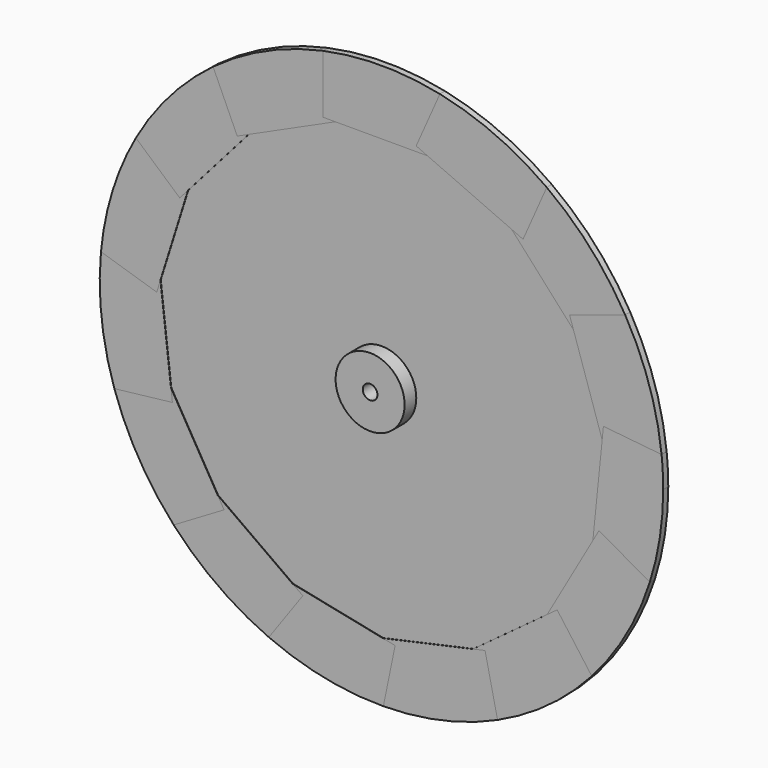
from build123d import *

# Parameters (mm, degrees)
F0_R           = 7.493
F1_DEPTH       = 0.5969
F2_DEPTH       = 0.6869
F3_DEPTH       = 0.6869
F4_DEPTH       = 0.6869
F5_DEPTH       = 0.6869
F6_DEPTH       = 0.6869
F7_DEPTH       = 0.6869
F8_DEPTH       = 0.6869
F9_DEPTH       = 0.6869
F10_DEPTH      = 0.6869
F11_DEPTH      = 0.6869
F12_DEPTH      = 0.6869
F13_DEPTH      = 0.6869
F14_DEPTH      = 0.6869
F15_DEPTH      = 0.6869
F16_DEPTH      = 0.6869
F17_R          = 7.493
F17_R_2        = 1.5875
F18_DEPTH      = 1.1938
F18_DEPTH_BACK = 3.175
F19_DEPTH      = 3.175
F20_R          = 12.7
F20_R_2        = 7.493
F21_DEPTH      = 3.175


with BuildPart() as f1:
    # F0 (on Front) → F1 (new body, symmetric)
    with BuildSketch(Plane.XZ):
        with BuildLine():
            Line((26.4908622034, 41.0569497409), (34.9497275843, 48.7011260422))
            ThreePointArc((34.9497275843, 48.7011260422), (24.3318321881, 54.7836205299), (12.7, 58.5832154802))
            Line((12.7, 58.5832154802), (12.7, 47.1820824287))
            Line((12.7, 47.1820824287), (10.0065398954, 47.1820824287))
            Line((10.0065398954, 47.1820824287), (28.2967602494, 39.0585855143))
            Line((28.2967602494, 39.0585855143), (26.4908622034, 41.0569497409))
        make_face()
        with BuildLine():
            ThreePointArc((-23.7120252318, -55.0547272757), (-12.0380536763, -58.7228098756), (0.137558094, -59.9438421672))
            Line((0.137558094, -59.9438421672), (-2.3034989653, -48.8070977915))
            Line((-2.3034989653, -48.8070977915), (0.3275006498, -48.2304103892))
            Line((0.3275006498, -48.2304103892), (-19.2778690216, -44.2113504541))
            Line((-19.2778690216, -44.2113504541), (-17.0859863467, -45.7767186774))
            Line((-17.0859863467, -45.7767186774), (-23.7120252318, -55.0547272757))
        make_face()
        with BuildLine():
            Line((-37.7559861909, -31.0149062398), (-44.382025076, -40.2929148381))
            ThreePointArc((-44.382025076, -40.2929148381), (-44.2004423597, -40.4920242913), (-44.0179663942, -40.6903154389))
            Line((-44.0179663942, -40.6903154389), (-34.1963103794, -34.9005910946))
            Line((-34.1963103794, -34.9005910946), (-35.564103516, -32.5802744631))
            Line((-35.564103516, -32.5802744631), (-37.7559861909, -31.0149062398))
        make_face()
        with BuildLine():
            ThreePointArc((24.4574842978, -54.7276401631), (24.7032618205, -54.6171400883), (24.9485401136, -54.5055362527))
            Line((24.9485401136, -54.5055362527), (22.5074830543, -43.368791877))
            Line((22.5074830543, -43.368791877), (19.8764834392, -43.9454792792))
            Line((19.8764834392, -43.9454792792), (17.706060654, -45.5404690185))
            Line((17.706060654, -45.5404690185), (24.4574842978, -54.7276401631))
        make_face()
        with BuildLine():
            ThreePointArc((57.0023224603, -18.54773221), (57.0851266389, -18.2912944491), (57.166777181, -18.0344870384))
            Line((57.166777181, -18.0344870384), (47.2674021391, -12.378675104))
            Line((47.2674021391, -12.378675104), (45.931245133, -14.717352463))
            Line((45.931245133, -14.717352463), (45.659404526, -17.3970595402))
            Line((45.659404526, -17.3970595402), (57.0023224603, -18.54773221))
        make_face()
        with BuildLine():
            ThreePointArc((-59.7023991451, 5.3764925664), (-59.550263486, -6.8592459311), (-56.9165965289, -18.8091513783))
            Line((-56.9165965289, -18.8091513783), (-47.094940514, -13.0194270339))
            Line((-47.094940514, -13.0194270339), (-45.7271473774, -15.3397436654))
            Line((-45.7271473774, -15.3397436654), (-48.0171953575, 4.5418820972))
            Line((-48.0171953575, 4.5418820972), (-48.8216412056, 1.9713579848))
            Line((-48.8216412056, 1.9713579848), (-59.7023991451, 5.3764925664))
        make_face()
        with BuildLine():
            ThreePointArc((44.5664836412, -40.0887973362), (44.7462499775, -39.8880464419), (44.9251120343, -39.6864894479))
            Line((44.9251120343, -39.6864894479), (38.1736883906, -30.4993183033))
            Line((38.1736883906, -30.4993183033), (36.0032656054, -32.0943080426))
            Line((36.0032656054, -32.0943080426), (34.6671085993, -34.4329854017))
            Line((34.6671085993, -34.4329854017), (44.5664836412, -40.0887973362))
        make_face()
        with BuildLine():
            Line((-41.2355163896, 26.212040943), (-52.1162743291, 29.6171755246))
            ThreePointArc((-52.1162743291, 29.6171755246), (-52.2488898631, 29.3825908333), (-52.3804494963, 29.1474123477))
            Line((-52.3804494963, 29.1474123477), (-43.8185558819, 21.6188127041))
            Line((-43.8185558819, 21.6188127041), (-42.0399622376, 23.6415168306))
            Line((-42.0399622376, 23.6415168306), (-41.2355163896, 26.212040943))
        make_face()
        with BuildLine():
            Line((-48.3254014376, 7.217650463), (-59.6516472212, 5.9130465745))
            ThreePointArc((-59.6516472212, 5.9130465745), (-59.6776261974, 5.6448266088), (-59.7023991451, 5.3764925664))
            Line((-59.7023991451, 5.3764925664), (-48.8216412056, 1.9713579848))
            Line((-48.8216412056, 1.9713579848), (-48.0171953575, 4.5418820972))
            Line((-48.0171953575, 4.5418820972), (-48.3254014376, 7.217650463))
        make_face()
        with BuildLine():
            Line((-47.094940514, -13.0194270339), (-56.9165965289, -18.8091513783))
            ThreePointArc((-56.9165965289, -18.8091513783), (-56.83146606, -19.06482629), (-56.745187081, -19.3201159196))
            Line((-56.745187081, -19.3201159196), (-45.4189412973, -18.0155120311))
            Line((-45.4189412973, -18.0155120311), (-45.7271473774, -15.3397436654))
            Line((-45.7271473774, -15.3397436654), (-47.094940514, -13.0194270339))
        make_face()
        with BuildLine():
            Line((40.875753265, 26.7696039816), (51.7092659789, 30.322185738))
            ThreePointArc((51.7092659789, 30.322185738), (44.4743714598, 40.1909619101), (35.3861762451, 48.3849322285))
            Line((35.3861762451, 48.3849322285), (30.7583493372, 37.9652847791))
            Line((30.7583493372, 37.9652847791), (28.2967602494, 39.0585855143))
            Line((28.2967602494, 39.0585855143), (41.7150327634, 24.2102413151))
            Line((41.7150327634, 24.2102413151), (40.875753265, 26.7696039816))
        make_face()
        with BuildLine():
            Line((-21.9164574646, -43.6704453208), (-24.2060519469, -54.8393124058))
            ThreePointArc((-24.2060519469, -54.8393124058), (-23.9592806866, -54.9475750601), (-23.7120252318, -55.0547272757))
            Line((-23.7120252318, -55.0547272757), (-17.0859863467, -45.7767186774))
            Line((-17.0859863467, -45.7767186774), (-19.2778690216, -44.2113504541))
            Line((-19.2778690216, -44.2113504541), (-21.9164574646, -43.6704453208))
        make_face()
        with BuildLine():
            ThreePointArc((44.9251120343, -39.6864894479), (52.0481723027, -29.736692754), (57.0023224603, -18.54773221))
            Line((57.0023224603, -18.54773221), (45.659404526, -17.3970595402))
            Line((45.659404526, -17.3970595402), (45.931245133, -14.717352463))
            Line((45.931245133, -14.717352463), (36.0032656054, -32.0943080426))
            Line((36.0032656054, -32.0943080426), (38.1736883906, -30.4993183033))
            Line((38.1736883906, -30.4993183033), (44.9251120343, -39.6864894479))
        make_face()
        with BuildLine():
            Line((12.7, 47.1820824287), (12.7, 58.5832154802))
            ThreePointArc((12.7, 58.5832154802), (12.4365145228, 58.6397155734), (12.1727777154, 58.6950306133))
            Line((12.1727777154, 58.6950306133), (7.5449508076, 48.2753831639))
            Line((7.5449508076, 48.2753831639), (10.0065398954, 47.1820824287))
            Line((10.0065398954, 47.1820824287), (12.7, 47.1820824287))
        make_face()
        with BuildLine():
            Line((30.7583493372, 37.9652847791), (35.3861762451, 48.3849322285))
            ThreePointArc((35.3861762451, 48.3849322285), (35.1683072738, 48.5435196447), (34.9497275843, 48.7011260422))
            Line((34.9497275843, 48.7011260422), (26.4908622034, 41.0569497409))
            Line((26.4908622034, 41.0569497409), (28.2967602494, 39.0585855143))
            Line((28.2967602494, 39.0585855143), (30.7583493372, 37.9652847791))
        make_face()
        with BuildLine():
            Line((-27.0459745881, 40.6934166775), (-35.6078682025, 48.2220163211))
            ThreePointArc((-35.6078682025, 48.2220163211), (-35.8273801364, 48.0591507266), (-36.046147156, 47.8952858976))
            Line((-36.046147156, 47.8952858976), (-31.3380487126, 37.5134812902))
            Line((-31.3380487126, 37.5134812902), (-28.8499866665, 38.6418054583))
            Line((-28.8499866665, 38.6418054583), (-27.0459745881, 40.6934166775))
        make_face()
        with BuildLine():
            ThreePointArc((-56.745187081, -19.3201159196), (-51.6395471831, -30.4407671178), (-44.382025076, -40.2929148381))
            Line((-44.382025076, -40.2929148381), (-37.7559861909, -31.0149062398))
            Line((-37.7559861909, -31.0149062398), (-35.564103516, -32.5802744631))
            Line((-35.564103516, -32.5802744631), (-45.7271473774, -15.3397436654))
            Line((-45.7271473774, -15.3397436654), (-45.4189412973, -18.0155120311))
            Line((-45.4189412973, -18.0155120311), (-56.745187081, -19.3201159196))
        make_face()
        with BuildLine():
            Line((-43.8185558819, 21.6188127041), (-52.3804494963, 29.1474123477))
            ThreePointArc((-52.3804494963, 29.1474123477), (-57.2080117812, 17.9032545658), (-59.6516472212, 5.9130465745))
            Line((-59.6516472212, 5.9130465745), (-48.3254014376, 7.217650463))
            Line((-48.3254014376, 7.217650463), (-48.0171953575, 4.5418820972))
            Line((-48.0171953575, 4.5418820972), (-42.0399622376, 23.6415168306))
            Line((-42.0399622376, 23.6415168306), (-43.8185558819, 21.6188127041))
        make_face()
        with BuildLine():
            ThreePointArc((-44.0179663942, -40.6903154389), (-34.8378773527, -48.7811996322), (-24.2060519469, -54.8393124058))
            Line((-24.2060519469, -54.8393124058), (-21.9164574646, -43.6704453208))
            Line((-21.9164574646, -43.6704453208), (-19.2778690216, -44.2113504541))
            Line((-19.2778690216, -44.2113504541), (-35.564103516, -32.5802744631))
            Line((-35.564103516, -32.5802744631), (-34.1963103794, -34.9005910946))
            Line((-34.1963103794, -34.9005910946), (-44.0179663942, -40.6903154389))
        make_face()
        with BuildLine():
            Line((-2.3034989653, -48.8070977915), (0.137558094, -59.9438421672))
            ThreePointArc((0.137558094, -59.9438421672), (0.4070304651, -59.9426180793), (0.6764946106, -59.9401826077))
            Line((0.6764946106, -59.9401826077), (2.9660890929, -48.7713155226))
            Line((2.9660890929, -48.7713155226), (0.3275006498, -48.2304103892))
            Line((0.3275006498, -48.2304103892), (-2.3034989653, -48.8070977915))
        make_face()
        with BuildLine():
            ThreePointArc((57.166777181, -18.0344870384), (59.2456261142, -9.1235367227), (59.944, 0))
            ThreePointArc((59.944, 0), (59.8639167053, 3.0975171837), (59.6238807986, 6.1867579967))
            Line((59.6238807986, 6.1867579967), (48.7903680848, 2.6341762403))
            Line((48.7903680848, 2.6341762403), (47.9510885863, 5.1935389068))
            Line((47.9510885863, 5.1935389068), (45.931245133, -14.717352463))
            Line((45.931245133, -14.717352463), (47.2674021391, -12.378675104))
            Line((47.2674021391, -12.378675104), (57.166777181, -18.0344870384))
        make_face()
        Polygon((45.931245133, -14.717352463), (47.9510885863, 5.1935389068), (41.7150327634, 24.2102413151), (28.2967602494, 39.0585855143), (10.0065398954, 47.1820824287), (-10.0178641298, 47.1820824287), (-28.8499866665, 38.6418054583), (-42.0399622376, 23.6415168306), (-48.0171953575, 4.5418820972), (-45.7271473774, -15.3397436654), (-35.564103516, -32.5802744631), (-19.2778690216, -44.2113504541), (0.3275006498, -48.2304103892), (19.8764834392, -43.9454792792), (36.0032656054, -32.0943080426), align=None)
        Circle(F0_R, mode=Mode.SUBTRACT)
        with BuildLine():
            ThreePointArc((24.9485401136, -54.5055362527), (35.4971156878, -48.3036014583), (44.5664836412, -40.0887973362))
            Line((44.5664836412, -40.0887973362), (34.6671085993, -34.4329854017))
            Line((34.6671085993, -34.4329854017), (36.0032656054, -32.0943080426))
            Line((36.0032656054, -32.0943080426), (19.8764834392, -43.9454792792))
            Line((19.8764834392, -43.9454792792), (22.5074830543, -43.368791877))
            Line((22.5074830543, -43.368791877), (24.9485401136, -54.5055362527))
        make_face()
        with BuildLine():
            Line((48.2229291934, 7.8732459839), (59.5658471277, 6.7225733141))
            ThreePointArc((59.5658471277, 6.7225733141), (56.9596094694, 18.6784909747), (51.9797961903, 29.8560533898))
            Line((51.9797961903, 29.8560533898), (43.5209308094, 22.2118770885))
            Line((43.5209308094, 22.2118770885), (41.7150327634, 24.2102413151))
            Line((41.7150327634, 24.2102413151), (47.9510885863, 5.1935389068))
            Line((47.9510885863, 5.1935389068), (48.2229291934, 7.8732459839))
        make_face()
        with BuildLine():
            Line((48.7903680848, 2.6341762403), (59.6238807986, 6.1867579967))
            ThreePointArc((59.6238807986, 6.1867579967), (59.5954661472, 6.4547308774), (59.5658471277, 6.7225733141))
            Line((59.5658471277, 6.7225733141), (48.2229291934, 7.8732459839))
            Line((48.2229291934, 7.8732459839), (47.9510885863, 5.1935389068))
            Line((47.9510885863, 5.1935389068), (48.7903680848, 2.6341762403))
        make_face()
        with BuildLine():
            Line((43.5209308094, 22.2118770885), (51.9797961903, 29.8560533898))
            ThreePointArc((51.9797961903, 29.8560533898), (51.8450549544, 30.0894236033), (51.7092659789, 30.322185738))
            Line((51.7092659789, 30.322185738), (40.875753265, 26.7696039816))
            Line((40.875753265, 26.7696039816), (41.7150327634, 24.2102413151))
            Line((41.7150327634, 24.2102413151), (43.5209308094, 22.2118770885))
        make_face()
        with BuildLine():
            ThreePointArc((-12.2451513801, 58.679974469), (-12.4726695186, 58.6320360475), (-12.7, 58.5832154802))
            Line((-12.7, 58.5832154802), (-12.7, 47.1820824287))
            Line((-12.7, 47.1820824287), (-10.0178641298, 47.1820824287))
            Line((-10.0178641298, 47.1820824287), (-8.2055966443, 48.0039370147))
            Line((-8.2055966443, 48.0039370147), (-12.2451513801, 58.679974469))
        make_face()
        with BuildLine():
            ThreePointArc((0.6764946106, -59.9401826077), (12.8344019582, -58.5539175664), (24.4574842978, -54.7276401631))
            Line((24.4574842978, -54.7276401631), (17.706060654, -45.5404690185))
            Line((17.706060654, -45.5404690185), (19.8764834392, -43.9454792792))
            Line((19.8764834392, -43.9454792792), (0.3275006498, -48.2304103892))
            Line((0.3275006498, -48.2304103892), (2.9660890929, -48.7713155226))
            Line((2.9660890929, -48.7713155226), (0.6764946106, -59.9401826077))
        make_face()
        with BuildLine():
            Line((-31.3380487126, 37.5134812902), (-36.046147156, 47.8952858976))
            ThreePointArc((-36.046147156, 47.8952858976), (-45.0186124867, 39.5803949673), (-52.1162743291, 29.6171755246))
            Line((-52.1162743291, 29.6171755246), (-41.2355163896, 26.212040943))
            Line((-41.2355163896, 26.212040943), (-42.0399622376, 23.6415168306))
            Line((-42.0399622376, 23.6415168306), (-28.8499866665, 38.6418054583))
            Line((-28.8499866665, 38.6418054583), (-31.3380487126, 37.5134812902))
        make_face()
        with BuildLine():
            Line((-12.7, 47.1820824287), (-12.7, 58.5832154802))
            ThreePointArc((-12.7, 58.5832154802), (-24.7032618205, 54.6171400883), (-35.6078682025, 48.2220163211))
            Line((-35.6078682025, 48.2220163211), (-27.0459745881, 40.6934166775))
            Line((-27.0459745881, 40.6934166775), (-28.8499866665, 38.6418054583))
            Line((-28.8499866665, 38.6418054583), (-10.0178641298, 47.1820824287))
            Line((-10.0178641298, 47.1820824287), (-12.7, 47.1820824287))
        make_face()
        with BuildLine():
            Line((7.5449508076, 48.2753831639), (12.1727777154, 58.6950306133))
            ThreePointArc((12.1727777154, 58.6950306133), (-0.0369615842, 59.9439886047), (-12.2451513801, 58.679974469))
            Line((-12.2451513801, 58.679974469), (-8.2055966443, 48.0039370147))
            Line((-8.2055966443, 48.0039370147), (-10.0178641298, 47.1820824287))
            Line((-10.0178641298, 47.1820824287), (10.0065398954, 47.1820824287))
            Line((10.0065398954, 47.1820824287), (7.5449508076, 48.2753831639))
        make_face()
    extrude(amount=F1_DEPTH, both=True)


with BuildPart() as f2:
    # F0 (on Front) → F2 (new body, symmetric)
    with BuildSketch(Plane.XZ):
        with BuildLine():
            Line((40.875753265, 26.7696039816), (51.7092659789, 30.322185738))
            ThreePointArc((51.7092659789, 30.322185738), (44.4743714598, 40.1909619101), (35.3861762451, 48.3849322285))
            Line((35.3861762451, 48.3849322285), (30.7583493372, 37.9652847791))
            Line((30.7583493372, 37.9652847791), (28.2967602494, 39.0585855143))
            Line((28.2967602494, 39.0585855143), (41.7150327634, 24.2102413151))
            Line((41.7150327634, 24.2102413151), (40.875753265, 26.7696039816))
        make_face()
        with BuildLine():
            Line((43.5209308094, 22.2118770885), (51.9797961903, 29.8560533898))
            ThreePointArc((51.9797961903, 29.8560533898), (51.8450549544, 30.0894236033), (51.7092659789, 30.322185738))
            Line((51.7092659789, 30.322185738), (40.875753265, 26.7696039816))
            Line((40.875753265, 26.7696039816), (41.7150327634, 24.2102413151))
            Line((41.7150327634, 24.2102413151), (43.5209308094, 22.2118770885))
        make_face()
        with BuildLine():
            Line((30.7583493372, 37.9652847791), (35.3861762451, 48.3849322285))
            ThreePointArc((35.3861762451, 48.3849322285), (35.1683072738, 48.5435196447), (34.9497275843, 48.7011260422))
            Line((34.9497275843, 48.7011260422), (26.4908622034, 41.0569497409))
            Line((26.4908622034, 41.0569497409), (28.2967602494, 39.0585855143))
            Line((28.2967602494, 39.0585855143), (30.7583493372, 37.9652847791))
        make_face()
        with BuildLine():
            Line((51.7092659789, 30.322185738), (52.9434671356, 30.7269113915))
            ThreePointArc((52.9434671356, 30.7269113915), (45.4166250924, 41.0424653404), (35.9133985296, 49.5719840439))
            Line((35.9133985296, 49.5719840439), (35.3861762451, 48.3849322285))
            ThreePointArc((35.3861762451, 48.3849322285), (44.4743714598, 40.1909619101), (51.7092659789, 30.322185738))
        make_face()
        with BuildLine():
            ThreePointArc((51.7092659789, 30.322185738), (51.8450549544, 30.0894236033), (51.9797961903, 29.8560533898))
            Line((51.9797961903, 29.8560533898), (52.9434671356, 30.7269113915))
            Line((52.9434671356, 30.7269113915), (51.7092659789, 30.322185738))
        make_face()
        with BuildLine():
            Line((35.3861762451, 48.3849322285), (35.9133985296, 49.5719840439))
            Line((35.9133985296, 49.5719840439), (34.9497275843, 48.7011260422))
            ThreePointArc((34.9497275843, 48.7011260422), (35.1683072738, 48.5435196447), (35.3861762451, 48.3849322285))
        make_face()
    extrude(amount=F2_DEPTH, both=True)


with BuildPart() as f3:
    # F0 (on Front) → F3 (new body, symmetric)
    with BuildSketch(Plane.XZ):
        with BuildLine():
            Line((43.5209308094, 22.2118770885), (51.9797961903, 29.8560533898))
            ThreePointArc((51.9797961903, 29.8560533898), (51.8450549544, 30.0894236033), (51.7092659789, 30.322185738))
            Line((51.7092659789, 30.322185738), (40.875753265, 26.7696039816))
            Line((40.875753265, 26.7696039816), (41.7150327634, 24.2102413151))
            Line((41.7150327634, 24.2102413151), (43.5209308094, 22.2118770885))
        make_face()
        with BuildLine():
            Line((48.2229291934, 7.8732459839), (59.5658471277, 6.7225733141))
            ThreePointArc((59.5658471277, 6.7225733141), (56.9596094694, 18.6784909747), (51.9797961903, 29.8560533898))
            Line((51.9797961903, 29.8560533898), (43.5209308094, 22.2118770885))
            Line((43.5209308094, 22.2118770885), (41.7150327634, 24.2102413151))
            Line((41.7150327634, 24.2102413151), (47.9510885863, 5.1935389068))
            Line((47.9510885863, 5.1935389068), (48.2229291934, 7.8732459839))
        make_face()
        with BuildLine():
            ThreePointArc((51.9797961903, 29.8560533898), (56.9596094694, 18.6784909747), (59.5658471277, 6.7225733141))
            Line((59.5658471277, 6.7225733141), (60.8580819554, 6.5914836502))
            ThreePointArc((60.8580819554, 6.5914836502), (58.1663808565, 19.0742217157), (52.9434671356, 30.7269113915))
            Line((52.9434671356, 30.7269113915), (51.9797961903, 29.8560533898))
        make_face()
        with BuildLine():
            Line((48.7903680848, 2.6341762403), (59.6238807986, 6.1867579967))
            ThreePointArc((59.6238807986, 6.1867579967), (59.5954661472, 6.4547308774), (59.5658471277, 6.7225733141))
            Line((59.5658471277, 6.7225733141), (48.2229291934, 7.8732459839))
            Line((48.2229291934, 7.8732459839), (47.9510885863, 5.1935389068))
            Line((47.9510885863, 5.1935389068), (48.7903680848, 2.6341762403))
        make_face()
        with BuildLine():
            ThreePointArc((59.5658471277, 6.7225733141), (59.5954661472, 6.4547308774), (59.6238807986, 6.1867579967))
            Line((59.6238807986, 6.1867579967), (60.8580819554, 6.5914836502))
            Line((60.8580819554, 6.5914836502), (59.5658471277, 6.7225733141))
        make_face()
        with BuildLine():
            ThreePointArc((51.7092659789, 30.322185738), (51.8450549544, 30.0894236033), (51.9797961903, 29.8560533898))
            Line((51.9797961903, 29.8560533898), (52.9434671356, 30.7269113915))
            Line((52.9434671356, 30.7269113915), (51.7092659789, 30.322185738))
        make_face()
    extrude(amount=F3_DEPTH, both=True)


with BuildPart() as f4:
    # F0 (on Front) → F4 (new body, symmetric)
    with BuildSketch(Plane.XZ):
        with BuildLine():
            Line((58.294557288, -18.6788218739), (57.166777181, -18.0344870384))
            ThreePointArc((57.166777181, -18.0344870384), (57.0851266389, -18.2912944491), (57.0023224603, -18.54773221))
            Line((57.0023224603, -18.54773221), (58.294557288, -18.6788218739))
        make_face()
        with BuildLine():
            ThreePointArc((57.0023224603, -18.54773221), (57.0851266389, -18.2912944491), (57.166777181, -18.0344870384))
            Line((57.166777181, -18.0344870384), (47.2674021391, -12.378675104))
            Line((47.2674021391, -12.378675104), (45.931245133, -14.717352463))
            Line((45.931245133, -14.717352463), (45.659404526, -17.3970595402))
            Line((45.659404526, -17.3970595402), (57.0023224603, -18.54773221))
        make_face()
        with BuildLine():
            Line((48.7903680848, 2.6341762403), (59.6238807986, 6.1867579967))
            ThreePointArc((59.6238807986, 6.1867579967), (59.5954661472, 6.4547308774), (59.5658471277, 6.7225733141))
            Line((59.5658471277, 6.7225733141), (48.2229291934, 7.8732459839))
            Line((48.2229291934, 7.8732459839), (47.9510885863, 5.1935389068))
            Line((47.9510885863, 5.1935389068), (48.7903680848, 2.6341762403))
        make_face()
        with BuildLine():
            ThreePointArc((57.166777181, -18.0344870384), (59.2456261142, -9.1235367227), (59.944, 0))
            ThreePointArc((59.944, 0), (59.8639167053, 3.0975171837), (59.6238807986, 6.1867579967))
            Line((59.6238807986, 6.1867579967), (48.7903680848, 2.6341762403))
            Line((48.7903680848, 2.6341762403), (47.9510885863, 5.1935389068))
            Line((47.9510885863, 5.1935389068), (45.931245133, -14.717352463))
            Line((45.931245133, -14.717352463), (47.2674021391, -12.378675104))
            Line((47.2674021391, -12.378675104), (57.166777181, -18.0344870384))
        make_face()
        with BuildLine():
            ThreePointArc((59.5658471277, 6.7225733141), (59.5954661472, 6.4547308774), (59.6238807986, 6.1867579967))
            Line((59.6238807986, 6.1867579967), (60.8580819554, 6.5914836502))
            Line((60.8580819554, 6.5914836502), (59.5658471277, 6.7225733141))
        make_face()
        with BuildLine():
            ThreePointArc((59.6238807986, 6.1867579967), (59.8639167053, 3.0975171837), (59.944, 0))
            ThreePointArc((59.944, 0), (59.2456261142, -9.1235367227), (57.166777181, -18.0344870384))
            Line((57.166777181, -18.0344870384), (58.294557288, -18.6788218739))
            ThreePointArc((58.294557288, -18.6788218739), (60.4797355559, -9.4527976328), (61.214, 0))
            ThreePointArc((61.214, 0), (61.1249557252, 3.3005429237), (60.8580819554, 6.5914836502))
            Line((60.8580819554, 6.5914836502), (59.6238807986, 6.1867579967))
        make_face()
    extrude(amount=F4_DEPTH, both=True)


with BuildPart() as f5:
    # F0 (on Front) → F5 (new body, symmetric)
    with BuildSketch(Plane.XZ):
        with BuildLine():
            ThreePointArc((44.9251120343, -39.6864894479), (52.0481723027, -29.736692754), (57.0023224603, -18.54773221))
            Line((57.0023224603, -18.54773221), (45.659404526, -17.3970595402))
            Line((45.659404526, -17.3970595402), (45.931245133, -14.717352463))
            Line((45.931245133, -14.717352463), (36.0032656054, -32.0943080426))
            Line((36.0032656054, -32.0943080426), (38.1736883906, -30.4993183033))
            Line((38.1736883906, -30.4993183033), (44.9251120343, -39.6864894479))
        make_face()
        with BuildLine():
            ThreePointArc((57.0023224603, -18.54773221), (57.0851266389, -18.2912944491), (57.166777181, -18.0344870384))
            Line((57.166777181, -18.0344870384), (47.2674021391, -12.378675104))
            Line((47.2674021391, -12.378675104), (45.931245133, -14.717352463))
            Line((45.931245133, -14.717352463), (45.659404526, -17.3970595402))
            Line((45.659404526, -17.3970595402), (57.0023224603, -18.54773221))
        make_face()
        with BuildLine():
            Line((58.294557288, -18.6788218739), (57.0023224603, -18.54773221))
            ThreePointArc((57.0023224603, -18.54773221), (52.0481723027, -29.736692754), (44.9251120343, -39.6864894479))
            Line((44.9251120343, -39.6864894479), (45.6942637482, -40.7331321716))
            ThreePointArc((45.6942637482, -40.7331321716), (53.1508878176, -30.366707431), (58.294557288, -18.6788218739))
        make_face()
        with BuildLine():
            ThreePointArc((44.5664836412, -40.0887973362), (44.7462499775, -39.8880464419), (44.9251120343, -39.6864894479))
            Line((44.9251120343, -39.6864894479), (38.1736883906, -30.4993183033))
            Line((38.1736883906, -30.4993183033), (36.0032656054, -32.0943080426))
            Line((36.0032656054, -32.0943080426), (34.6671085993, -34.4329854017))
            Line((34.6671085993, -34.4329854017), (44.5664836412, -40.0887973362))
        make_face()
        with BuildLine():
            Line((58.294557288, -18.6788218739), (57.166777181, -18.0344870384))
            ThreePointArc((57.166777181, -18.0344870384), (57.0851266389, -18.2912944491), (57.0023224603, -18.54773221))
            Line((57.0023224603, -18.54773221), (58.294557288, -18.6788218739))
        make_face()
        with BuildLine():
            Line((45.6942637482, -40.7331321716), (44.9251120343, -39.6864894479))
            ThreePointArc((44.9251120343, -39.6864894479), (44.7462499775, -39.8880464419), (44.5664836412, -40.0887973362))
            Line((44.5664836412, -40.0887973362), (45.6942637482, -40.7331321716))
        make_face()
    extrude(amount=F5_DEPTH, both=True)


with BuildPart() as f6:
    # F0 (on Front) → F6 (new body, symmetric)
    with BuildSketch(Plane.XZ):
        with BuildLine():
            ThreePointArc((24.9485401136, -54.5055362527), (35.4971156878, -48.3036014583), (44.5664836412, -40.0887973362))
            Line((44.5664836412, -40.0887973362), (34.6671085993, -34.4329854017))
            Line((34.6671085993, -34.4329854017), (36.0032656054, -32.0943080426))
            Line((36.0032656054, -32.0943080426), (19.8764834392, -43.9454792792))
            Line((19.8764834392, -43.9454792792), (22.5074830543, -43.368791877))
            Line((22.5074830543, -43.368791877), (24.9485401136, -54.5055362527))
        make_face()
        with BuildLine():
            ThreePointArc((44.5664836412, -40.0887973362), (44.7462499775, -39.8880464419), (44.9251120343, -39.6864894479))
            Line((44.9251120343, -39.6864894479), (38.1736883906, -30.4993183033))
            Line((38.1736883906, -30.4993183033), (36.0032656054, -32.0943080426))
            Line((36.0032656054, -32.0943080426), (34.6671085993, -34.4329854017))
            Line((34.6671085993, -34.4329854017), (44.5664836412, -40.0887973362))
        make_face()
        with BuildLine():
            ThreePointArc((24.4574842978, -54.7276401631), (24.7032618205, -54.6171400883), (24.9485401136, -54.5055362527))
            Line((24.9485401136, -54.5055362527), (22.5074830543, -43.368791877))
            Line((22.5074830543, -43.368791877), (19.8764834392, -43.9454792792))
            Line((19.8764834392, -43.9454792792), (17.706060654, -45.5404690185))
            Line((17.706060654, -45.5404690185), (24.4574842978, -54.7276401631))
        make_face()
        with BuildLine():
            ThreePointArc((25.2266360116, -55.7742828868), (36.2491732236, -49.3269828452), (45.6942637482, -40.7331321716))
            Line((45.6942637482, -40.7331321716), (44.5664836412, -40.0887973362))
            ThreePointArc((44.5664836412, -40.0887973362), (35.4971156878, -48.3036014583), (24.9485401136, -54.5055362527))
            Line((24.9485401136, -54.5055362527), (25.2266360116, -55.7742828868))
        make_face()
        with BuildLine():
            Line((45.6942637482, -40.7331321716), (44.9251120343, -39.6864894479))
            ThreePointArc((44.9251120343, -39.6864894479), (44.7462499775, -39.8880464419), (44.5664836412, -40.0887973362))
            Line((44.5664836412, -40.0887973362), (45.6942637482, -40.7331321716))
        make_face()
        with BuildLine():
            Line((24.4574842978, -54.7276401631), (25.2266360116, -55.7742828868))
            Line((25.2266360116, -55.7742828868), (24.9485401136, -54.5055362527))
            ThreePointArc((24.9485401136, -54.5055362527), (24.7032618205, -54.6171400883), (24.4574842978, -54.7276401631))
        make_face()
    extrude(amount=F6_DEPTH, both=True)


with BuildPart() as f7:
    # F0 (on Front) → F7 (new body, symmetric)
    with BuildSketch(Plane.XZ):
        with BuildLine():
            ThreePointArc((0.6764946106, -59.9401826077), (12.8344019582, -58.5539175664), (24.4574842978, -54.7276401631))
            Line((24.4574842978, -54.7276401631), (17.706060654, -45.5404690185))
            Line((17.706060654, -45.5404690185), (19.8764834392, -43.9454792792))
            Line((19.8764834392, -43.9454792792), (0.3275006498, -48.2304103892))
            Line((0.3275006498, -48.2304103892), (2.9660890929, -48.7713155226))
            Line((2.9660890929, -48.7713155226), (0.6764946106, -59.9401826077))
        make_face()
        with BuildLine():
            Line((-2.3034989653, -48.8070977915), (0.137558094, -59.9438421672))
            ThreePointArc((0.137558094, -59.9438421672), (0.4070304651, -59.9426180793), (0.6764946106, -59.9401826077))
            Line((0.6764946106, -59.9401826077), (2.9660890929, -48.7713155226))
            Line((2.9660890929, -48.7713155226), (0.3275006498, -48.2304103892))
            Line((0.3275006498, -48.2304103892), (-2.3034989653, -48.8070977915))
        make_face()
        with BuildLine():
            ThreePointArc((0.4156539919, -61.2125888013), (13.106317254, -59.7944666674), (25.2266360116, -55.7742828868))
            Line((25.2266360116, -55.7742828868), (24.4574842978, -54.7276401631))
            ThreePointArc((24.4574842978, -54.7276401631), (12.8344019582, -58.5539175664), (0.6764946106, -59.9401826077))
            Line((0.6764946106, -59.9401826077), (0.4156539919, -61.2125888013))
        make_face()
        with BuildLine():
            ThreePointArc((24.4574842978, -54.7276401631), (24.7032618205, -54.6171400883), (24.9485401136, -54.5055362527))
            Line((24.9485401136, -54.5055362527), (22.5074830543, -43.368791877))
            Line((22.5074830543, -43.368791877), (19.8764834392, -43.9454792792))
            Line((19.8764834392, -43.9454792792), (17.706060654, -45.5404690185))
            Line((17.706060654, -45.5404690185), (24.4574842978, -54.7276401631))
        make_face()
        with BuildLine():
            Line((0.137558094, -59.9438421672), (0.4156539919, -61.2125888013))
            Line((0.4156539919, -61.2125888013), (0.6764946106, -59.9401826077))
            ThreePointArc((0.6764946106, -59.9401826077), (0.4070304651, -59.9426180793), (0.137558094, -59.9438421672))
        make_face()
        with BuildLine():
            Line((24.4574842978, -54.7276401631), (25.2266360116, -55.7742828868))
            Line((25.2266360116, -55.7742828868), (24.9485401136, -54.5055362527))
            ThreePointArc((24.9485401136, -54.5055362527), (24.7032618205, -54.6171400883), (24.4574842978, -54.7276401631))
        make_face()
    extrude(amount=F7_DEPTH, both=True)


with BuildPart() as f8:
    # F0 (on Front) → F8 (new body, symmetric)
    with BuildSketch(Plane.XZ):
        with BuildLine():
            ThreePointArc((-23.7120252318, -55.0547272757), (-12.0380536763, -58.7228098756), (0.137558094, -59.9438421672))
            Line((0.137558094, -59.9438421672), (-2.3034989653, -48.8070977915))
            Line((-2.3034989653, -48.8070977915), (0.3275006498, -48.2304103892))
            Line((0.3275006498, -48.2304103892), (-19.2778690216, -44.2113504541))
            Line((-19.2778690216, -44.2113504541), (-17.0859863467, -45.7767186774))
            Line((-17.0859863467, -45.7767186774), (-23.7120252318, -55.0547272757))
        make_face()
        with BuildLine():
            Line((-21.9164574646, -43.6704453208), (-24.2060519469, -54.8393124058))
            ThreePointArc((-24.2060519469, -54.8393124058), (-23.9592806866, -54.9475750601), (-23.7120252318, -55.0547272757))
            Line((-23.7120252318, -55.0547272757), (-17.0859863467, -45.7767186774))
            Line((-17.0859863467, -45.7767186774), (-19.2778690216, -44.2113504541))
            Line((-19.2778690216, -44.2113504541), (-21.9164574646, -43.6704453208))
        make_face()
        with BuildLine():
            Line((-2.3034989653, -48.8070977915), (0.137558094, -59.9438421672))
            ThreePointArc((0.137558094, -59.9438421672), (0.4070304651, -59.9426180793), (0.6764946106, -59.9401826077))
            Line((0.6764946106, -59.9401826077), (2.9660890929, -48.7713155226))
            Line((2.9660890929, -48.7713155226), (0.3275006498, -48.2304103892))
            Line((0.3275006498, -48.2304103892), (-2.3034989653, -48.8070977915))
        make_face()
        with BuildLine():
            ThreePointArc((-24.4668925655, -56.1117185995), (-12.2930971864, -59.9669372035), (0.4156539919, -61.2125888013))
            Line((0.4156539919, -61.2125888013), (0.137558094, -59.9438421672))
            ThreePointArc((0.137558094, -59.9438421672), (-12.0380536763, -58.7228098756), (-23.7120252318, -55.0547272757))
            Line((-23.7120252318, -55.0547272757), (-24.4668925655, -56.1117185995))
        make_face()
        with BuildLine():
            Line((0.137558094, -59.9438421672), (0.4156539919, -61.2125888013))
            Line((0.4156539919, -61.2125888013), (0.6764946106, -59.9401826077))
            ThreePointArc((0.6764946106, -59.9401826077), (0.4070304651, -59.9426180793), (0.137558094, -59.9438421672))
        make_face()
        with BuildLine():
            Line((-24.2060519469, -54.8393124058), (-24.4668925655, -56.1117185995))
            Line((-24.4668925655, -56.1117185995), (-23.7120252318, -55.0547272757))
            ThreePointArc((-23.7120252318, -55.0547272757), (-23.9592806866, -54.9475750601), (-24.2060519469, -54.8393124058))
        make_face()
    extrude(amount=F8_DEPTH, both=True)


with BuildPart() as f9:
    # F0 (on Front) → F9 (new body, symmetric)
    with BuildSketch(Plane.XZ):
        with BuildLine():
            Line((-24.2060519469, -54.8393124058), (-24.4668925655, -56.1117185995))
            Line((-24.4668925655, -56.1117185995), (-23.7120252318, -55.0547272757))
            ThreePointArc((-23.7120252318, -55.0547272757), (-23.9592806866, -54.9475750601), (-24.2060519469, -54.8393124058))
        make_face()
        with BuildLine():
            ThreePointArc((-45.1368924097, -41.3499061619), (-35.5759679746, -49.8146996244), (-24.4668925655, -56.1117185995))
            Line((-24.4668925655, -56.1117185995), (-24.2060519469, -54.8393124058))
            ThreePointArc((-24.2060519469, -54.8393124058), (-34.8378773527, -48.7811996322), (-44.0179663942, -40.6903154389))
            Line((-44.0179663942, -40.6903154389), (-45.1368924097, -41.3499061619))
        make_face()
        with BuildLine():
            Line((-21.9164574646, -43.6704453208), (-24.2060519469, -54.8393124058))
            ThreePointArc((-24.2060519469, -54.8393124058), (-23.9592806866, -54.9475750601), (-23.7120252318, -55.0547272757))
            Line((-23.7120252318, -55.0547272757), (-17.0859863467, -45.7767186774))
            Line((-17.0859863467, -45.7767186774), (-19.2778690216, -44.2113504541))
            Line((-19.2778690216, -44.2113504541), (-21.9164574646, -43.6704453208))
        make_face()
        with BuildLine():
            ThreePointArc((-44.0179663942, -40.6903154389), (-34.8378773527, -48.7811996322), (-24.2060519469, -54.8393124058))
            Line((-24.2060519469, -54.8393124058), (-21.9164574646, -43.6704453208))
            Line((-21.9164574646, -43.6704453208), (-19.2778690216, -44.2113504541))
            Line((-19.2778690216, -44.2113504541), (-35.564103516, -32.5802744631))
            Line((-35.564103516, -32.5802744631), (-34.1963103794, -34.9005910946))
            Line((-34.1963103794, -34.9005910946), (-44.0179663942, -40.6903154389))
        make_face()
        with BuildLine():
            Line((-37.7559861909, -31.0149062398), (-44.382025076, -40.2929148381))
            ThreePointArc((-44.382025076, -40.2929148381), (-44.2004423597, -40.4920242913), (-44.0179663942, -40.6903154389))
            Line((-44.0179663942, -40.6903154389), (-34.1963103794, -34.9005910946))
            Line((-34.1963103794, -34.9005910946), (-35.564103516, -32.5802744631))
            Line((-35.564103516, -32.5802744631), (-37.7559861909, -31.0149062398))
        make_face()
        with BuildLine():
            Line((-44.382025076, -40.2929148381), (-45.1368924097, -41.3499061619))
            Line((-45.1368924097, -41.3499061619), (-44.0179663942, -40.6903154389))
            ThreePointArc((-44.0179663942, -40.6903154389), (-44.2004423597, -40.4920242913), (-44.382025076, -40.2929148381))
        make_face()
    extrude(amount=F9_DEPTH, both=True)


with BuildPart() as f10:
    # F0 (on Front) → F10 (new body, symmetric)
    with BuildSketch(Plane.XZ):
        with BuildLine():
            ThreePointArc((-56.745187081, -19.3201159196), (-51.6395471831, -30.4407671178), (-44.382025076, -40.2929148381))
            Line((-44.382025076, -40.2929148381), (-37.7559861909, -31.0149062398))
            Line((-37.7559861909, -31.0149062398), (-35.564103516, -32.5802744631))
            Line((-35.564103516, -32.5802744631), (-45.7271473774, -15.3397436654))
            Line((-45.7271473774, -15.3397436654), (-45.4189412973, -18.0155120311))
            Line((-45.4189412973, -18.0155120311), (-56.745187081, -19.3201159196))
        make_face()
        with BuildLine():
            Line((-47.094940514, -13.0194270339), (-56.9165965289, -18.8091513783))
            ThreePointArc((-56.9165965289, -18.8091513783), (-56.83146606, -19.06482629), (-56.745187081, -19.3201159196))
            Line((-56.745187081, -19.3201159196), (-45.4189412973, -18.0155120311))
            Line((-45.4189412973, -18.0155120311), (-45.7271473774, -15.3397436654))
            Line((-45.7271473774, -15.3397436654), (-47.094940514, -13.0194270339))
        make_face()
        with BuildLine():
            Line((-37.7559861909, -31.0149062398), (-44.382025076, -40.2929148381))
            ThreePointArc((-44.382025076, -40.2929148381), (-44.2004423597, -40.4920242913), (-44.0179663942, -40.6903154389))
            Line((-44.0179663942, -40.6903154389), (-34.1963103794, -34.9005910946))
            Line((-34.1963103794, -34.9005910946), (-35.564103516, -32.5802744631))
            Line((-35.564103516, -32.5802744631), (-37.7559861909, -31.0149062398))
        make_face()
        with BuildLine():
            ThreePointArc((-58.0355225443, -19.4687421012), (-52.7336053862, -31.0856986245), (-45.1368924097, -41.3499061619))
            Line((-45.1368924097, -41.3499061619), (-44.382025076, -40.2929148381))
            ThreePointArc((-44.382025076, -40.2929148381), (-51.6395471831, -30.4407671178), (-56.745187081, -19.3201159196))
            Line((-56.745187081, -19.3201159196), (-58.0355225443, -19.4687421012))
        make_face()
        with BuildLine():
            Line((-44.382025076, -40.2929148381), (-45.1368924097, -41.3499061619))
            Line((-45.1368924097, -41.3499061619), (-44.0179663942, -40.6903154389))
            ThreePointArc((-44.0179663942, -40.6903154389), (-44.2004423597, -40.4920242913), (-44.382025076, -40.2929148381))
        make_face()
        with BuildLine():
            Line((-56.9165965289, -18.8091513783), (-58.0355225443, -19.4687421012))
            Line((-58.0355225443, -19.4687421012), (-56.745187081, -19.3201159196))
            ThreePointArc((-56.745187081, -19.3201159196), (-56.83146606, -19.06482629), (-56.9165965289, -18.8091513783))
        make_face()
    extrude(amount=F10_DEPTH, both=True)


with BuildPart() as f11:
    # F0 (on Front) → F11 (new body, symmetric)
    with BuildSketch(Plane.XZ):
        with BuildLine():
            ThreePointArc((-59.7023991451, 5.3764925664), (-59.550263486, -6.8592459311), (-56.9165965289, -18.8091513783))
            Line((-56.9165965289, -18.8091513783), (-47.094940514, -13.0194270339))
            Line((-47.094940514, -13.0194270339), (-45.7271473774, -15.3397436654))
            Line((-45.7271473774, -15.3397436654), (-48.0171953575, 4.5418820972))
            Line((-48.0171953575, 4.5418820972), (-48.8216412056, 1.9713579848))
            Line((-48.8216412056, 1.9713579848), (-59.7023991451, 5.3764925664))
        make_face()
        with BuildLine():
            Line((-47.094940514, -13.0194270339), (-56.9165965289, -18.8091513783))
            ThreePointArc((-56.9165965289, -18.8091513783), (-56.83146606, -19.06482629), (-56.745187081, -19.3201159196))
            Line((-56.745187081, -19.3201159196), (-45.4189412973, -18.0155120311))
            Line((-45.4189412973, -18.0155120311), (-45.7271473774, -15.3397436654))
            Line((-45.7271473774, -15.3397436654), (-47.094940514, -13.0194270339))
        make_face()
        with BuildLine():
            Line((-48.3254014376, 7.217650463), (-59.6516472212, 5.9130465745))
            ThreePointArc((-59.6516472212, 5.9130465745), (-59.6776261974, 5.6448266088), (-59.7023991451, 5.3764925664))
            Line((-59.7023991451, 5.3764925664), (-48.8216412056, 1.9713579848))
            Line((-48.8216412056, 1.9713579848), (-48.0171953575, 4.5418820972))
            Line((-48.0171953575, 4.5418820972), (-48.3254014376, 7.217650463))
        make_face()
        with BuildLine():
            ThreePointArc((-60.9419826846, 5.7644203928), (-60.8119216107, -7.0045689381), (-58.0355225443, -19.4687421012))
            Line((-58.0355225443, -19.4687421012), (-56.9165965289, -18.8091513783))
            ThreePointArc((-56.9165965289, -18.8091513783), (-59.550263486, -6.8592459311), (-59.7023991451, 5.3764925664))
            Line((-59.7023991451, 5.3764925664), (-60.9419826846, 5.7644203928))
        make_face()
        with BuildLine():
            Line((-56.9165965289, -18.8091513783), (-58.0355225443, -19.4687421012))
            Line((-58.0355225443, -19.4687421012), (-56.745187081, -19.3201159196))
            ThreePointArc((-56.745187081, -19.3201159196), (-56.83146606, -19.06482629), (-56.9165965289, -18.8091513783))
        make_face()
        with BuildLine():
            Line((-59.6516472212, 5.9130465745), (-60.9419826846, 5.7644203928))
            Line((-60.9419826846, 5.7644203928), (-59.7023991451, 5.3764925664))
            ThreePointArc((-59.7023991451, 5.3764925664), (-59.6776261974, 5.6448266088), (-59.6516472212, 5.9130465745))
        make_face()
    extrude(amount=F11_DEPTH, both=True)


with BuildPart() as f12:
    # F0 (on Front) → F12 (new body, symmetric)
    with BuildSketch(Plane.XZ):
        with BuildLine():
            Line((-43.8185558819, 21.6188127041), (-52.3804494963, 29.1474123477))
            ThreePointArc((-52.3804494963, 29.1474123477), (-57.2080117812, 17.9032545658), (-59.6516472212, 5.9130465745))
            Line((-59.6516472212, 5.9130465745), (-48.3254014376, 7.217650463))
            Line((-48.3254014376, 7.217650463), (-48.0171953575, 4.5418820972))
            Line((-48.0171953575, 4.5418820972), (-42.0399622376, 23.6415168306))
            Line((-42.0399622376, 23.6415168306), (-43.8185558819, 21.6188127041))
        make_face()
        with BuildLine():
            Line((-48.3254014376, 7.217650463), (-59.6516472212, 5.9130465745))
            ThreePointArc((-59.6516472212, 5.9130465745), (-59.6776261974, 5.6448266088), (-59.7023991451, 5.3764925664))
            Line((-59.7023991451, 5.3764925664), (-48.8216412056, 1.9713579848))
            Line((-48.8216412056, 1.9713579848), (-48.0171953575, 4.5418820972))
            Line((-48.0171953575, 4.5418820972), (-48.3254014376, 7.217650463))
        make_face()
        with BuildLine():
            Line((-52.3804494963, 29.1474123477), (-53.3558578686, 30.005103351))
            ThreePointArc((-53.3558578686, 30.005103351), (-56.194462969, 24.2762461601), (-58.4200459291, 18.2825608066))
            ThreePointArc((-58.4200459291, 18.2825608066), (-60.0083279933, 12.0894320566), (-60.9419826846, 5.7644203928))
            Line((-60.9419826846, 5.7644203928), (-59.6516472212, 5.9130465745))
            ThreePointArc((-59.6516472212, 5.9130465745), (-57.2080117812, 17.9032545658), (-52.3804494963, 29.1474123477))
        make_face()
        with BuildLine():
            Line((-59.6516472212, 5.9130465745), (-60.9419826846, 5.7644203928))
            Line((-60.9419826846, 5.7644203928), (-59.7023991451, 5.3764925664))
            ThreePointArc((-59.7023991451, 5.3764925664), (-59.6776261974, 5.6448266088), (-59.6516472212, 5.9130465745))
        make_face()
        with BuildLine():
            Line((-52.1162743291, 29.6171755246), (-53.3558578686, 30.005103351))
            Line((-53.3558578686, 30.005103351), (-52.3804494963, 29.1474123477))
            ThreePointArc((-52.3804494963, 29.1474123477), (-52.2488898631, 29.3825908333), (-52.1162743291, 29.6171755246))
        make_face()
        with BuildLine():
            Line((-41.2355163896, 26.212040943), (-52.1162743291, 29.6171755246))
            ThreePointArc((-52.1162743291, 29.6171755246), (-52.2488898631, 29.3825908333), (-52.3804494963, 29.1474123477))
            Line((-52.3804494963, 29.1474123477), (-43.8185558819, 21.6188127041))
            Line((-43.8185558819, 21.6188127041), (-42.0399622376, 23.6415168306))
            Line((-42.0399622376, 23.6415168306), (-41.2355163896, 26.212040943))
        make_face()
    extrude(amount=F12_DEPTH, both=True)


with BuildPart() as f13:
    # F0 (on Front) → F13 (new body, symmetric)
    with BuildSketch(Plane.XZ):
        with BuildLine():
            Line((-31.3380487126, 37.5134812902), (-36.046147156, 47.8952858976))
            ThreePointArc((-36.046147156, 47.8952858976), (-45.0186124867, 39.5803949673), (-52.1162743291, 29.6171755246))
            Line((-52.1162743291, 29.6171755246), (-41.2355163896, 26.212040943))
            Line((-41.2355163896, 26.212040943), (-42.0399622376, 23.6415168306))
            Line((-42.0399622376, 23.6415168306), (-28.8499866665, 38.6418054583))
            Line((-28.8499866665, 38.6418054583), (-31.3380487126, 37.5134812902))
        make_face()
        with BuildLine():
            Line((-41.2355163896, 26.212040943), (-52.1162743291, 29.6171755246))
            ThreePointArc((-52.1162743291, 29.6171755246), (-52.2488898631, 29.3825908333), (-52.3804494963, 29.1474123477))
            Line((-52.3804494963, 29.1474123477), (-43.8185558819, 21.6188127041))
            Line((-43.8185558819, 21.6188127041), (-42.0399622376, 23.6415168306))
            Line((-42.0399622376, 23.6415168306), (-41.2355163896, 26.212040943))
        make_face()
        with BuildLine():
            Line((-36.046147156, 47.8952858976), (-36.5832765748, 49.0797073244))
            ThreePointArc((-36.5832765748, 49.0797073244), (-45.969795576, 40.421920918), (-53.3558578686, 30.005103351))
            Line((-53.3558578686, 30.005103351), (-52.1162743291, 29.6171755246))
            ThreePointArc((-52.1162743291, 29.6171755246), (-45.0186124867, 39.5803949673), (-36.046147156, 47.8952858976))
        make_face()
        with BuildLine():
            Line((-52.1162743291, 29.6171755246), (-53.3558578686, 30.005103351))
            Line((-53.3558578686, 30.005103351), (-52.3804494963, 29.1474123477))
            ThreePointArc((-52.3804494963, 29.1474123477), (-52.2488898631, 29.3825908333), (-52.1162743291, 29.6171755246))
        make_face()
        with BuildLine():
            Line((-27.0459745881, 40.6934166775), (-35.6078682025, 48.2220163211))
            ThreePointArc((-35.6078682025, 48.2220163211), (-35.8273801364, 48.0591507266), (-36.046147156, 47.8952858976))
            Line((-36.046147156, 47.8952858976), (-31.3380487126, 37.5134812902))
            Line((-31.3380487126, 37.5134812902), (-28.8499866665, 38.6418054583))
            Line((-28.8499866665, 38.6418054583), (-27.0459745881, 40.6934166775))
        make_face()
        with BuildLine():
            Line((-35.6078682025, 48.2220163211), (-36.5832765748, 49.0797073244))
            Line((-36.5832765748, 49.0797073244), (-36.046147156, 47.8952858976))
            ThreePointArc((-36.046147156, 47.8952858976), (-35.8273801364, 48.0591507266), (-35.6078682025, 48.2220163211))
        make_face()
    extrude(amount=F13_DEPTH, both=True)


with BuildPart() as f14:
    # F0 (on Front) → F14 (new body, symmetric)
    with BuildSketch(Plane.XZ):
        with BuildLine():
            Line((-27.0459745881, 40.6934166775), (-35.6078682025, 48.2220163211))
            ThreePointArc((-35.6078682025, 48.2220163211), (-35.8273801364, 48.0591507266), (-36.046147156, 47.8952858976))
            Line((-36.046147156, 47.8952858976), (-31.3380487126, 37.5134812902))
            Line((-31.3380487126, 37.5134812902), (-28.8499866665, 38.6418054583))
            Line((-28.8499866665, 38.6418054583), (-27.0459745881, 40.6934166775))
        make_face()
        with BuildLine():
            Line((-12.7, 47.1820824287), (-12.7, 58.5832154802))
            ThreePointArc((-12.7, 58.5832154802), (-24.7032618205, 54.6171400883), (-35.6078682025, 48.2220163211))
            Line((-35.6078682025, 48.2220163211), (-27.0459745881, 40.6934166775))
            Line((-27.0459745881, 40.6934166775), (-28.8499866665, 38.6418054583))
            Line((-28.8499866665, 38.6418054583), (-10.0178641298, 47.1820824287))
            Line((-10.0178641298, 47.1820824287), (-12.7, 47.1820824287))
        make_face()
        with BuildLine():
            Line((-12.7, 58.5832154802), (-12.7, 59.8820824287))
            ThreePointArc((-12.7, 59.8820824287), (-25.2266360116, 55.7742828868), (-36.5832765748, 49.0797073244))
            Line((-36.5832765748, 49.0797073244), (-35.6078682025, 48.2220163211))
            ThreePointArc((-35.6078682025, 48.2220163211), (-24.7032618205, 54.6171400883), (-12.7, 58.5832154802))
        make_face()
        with BuildLine():
            ThreePointArc((-12.2451513801, 58.679974469), (-12.4726695186, 58.6320360475), (-12.7, 58.5832154802))
            Line((-12.7, 58.5832154802), (-12.7, 47.1820824287))
            Line((-12.7, 47.1820824287), (-10.0178641298, 47.1820824287))
            Line((-10.0178641298, 47.1820824287), (-8.2055966443, 48.0039370147))
            Line((-8.2055966443, 48.0039370147), (-12.2451513801, 58.679974469))
        make_face()
        with BuildLine():
            Line((-35.6078682025, 48.2220163211), (-36.5832765748, 49.0797073244))
            Line((-36.5832765748, 49.0797073244), (-36.046147156, 47.8952858976))
            ThreePointArc((-36.046147156, 47.8952858976), (-35.8273801364, 48.0591507266), (-35.6078682025, 48.2220163211))
        make_face()
        with BuildLine():
            Line((-12.2451513801, 58.679974469), (-12.7, 59.8820824287))
            Line((-12.7, 59.8820824287), (-12.7, 58.5832154802))
            ThreePointArc((-12.7, 58.5832154802), (-12.4726695186, 58.6320360475), (-12.2451513801, 58.679974469))
        make_face()
    extrude(amount=F14_DEPTH, both=True)


with BuildPart() as f15:
    # F0 (on Front) → F15 (new body, symmetric)
    with BuildSketch(Plane.XZ):
        with BuildLine():
            Line((12.7, 47.1820824287), (12.7, 58.5832154802))
            ThreePointArc((12.7, 58.5832154802), (12.4365145228, 58.6397155734), (12.1727777154, 58.6950306133))
            Line((12.1727777154, 58.6950306133), (7.5449508076, 48.2753831639))
            Line((7.5449508076, 48.2753831639), (10.0065398954, 47.1820824287))
            Line((10.0065398954, 47.1820824287), (12.7, 47.1820824287))
        make_face()
        with BuildLine():
            Line((7.5449508076, 48.2753831639), (12.1727777154, 58.6950306133))
            ThreePointArc((12.1727777154, 58.6950306133), (-0.0369615842, 59.9439886047), (-12.2451513801, 58.679974469))
            Line((-12.2451513801, 58.679974469), (-8.2055966443, 48.0039370147))
            Line((-8.2055966443, 48.0039370147), (-10.0178641298, 47.1820824287))
            Line((-10.0178641298, 47.1820824287), (10.0065398954, 47.1820824287))
            Line((10.0065398954, 47.1820824287), (7.5449508076, 48.2753831639))
        make_face()
        with BuildLine():
            ThreePointArc((-12.2451513801, 58.679974469), (-12.4726695186, 58.6320360475), (-12.7, 58.5832154802))
            Line((-12.7, 58.5832154802), (-12.7, 47.1820824287))
            Line((-12.7, 47.1820824287), (-10.0178641298, 47.1820824287))
            Line((-10.0178641298, 47.1820824287), (-8.2055966443, 48.0039370147))
            Line((-8.2055966443, 48.0039370147), (-12.2451513801, 58.679974469))
        make_face()
        with BuildLine():
            Line((12.1727777154, 58.6950306133), (12.7, 59.8820824287))
            ThreePointArc((12.7, 59.8820824287), (0, 61.214), (-12.7, 59.8820824287))
            Line((-12.7, 59.8820824287), (-12.2451513801, 58.679974469))
            ThreePointArc((-12.2451513801, 58.679974469), (-0.0369615842, 59.9439886047), (12.1727777154, 58.6950306133))
        make_face()
        with BuildLine():
            Line((-12.2451513801, 58.679974469), (-12.7, 59.8820824287))
            Line((-12.7, 59.8820824287), (-12.7, 58.5832154802))
            ThreePointArc((-12.7, 58.5832154802), (-12.4726695186, 58.6320360475), (-12.2451513801, 58.679974469))
        make_face()
        with BuildLine():
            Line((12.7, 58.5832154802), (12.7, 59.8820824287))
            Line((12.7, 59.8820824287), (12.1727777154, 58.6950306133))
            ThreePointArc((12.1727777154, 58.6950306133), (12.4365145228, 58.6397155734), (12.7, 58.5832154802))
        make_face()
    extrude(amount=F15_DEPTH, both=True)


with BuildPart() as f16:
    # F0 (on Front) → F16 (new body, symmetric)
    with BuildSketch(Plane.XZ):
        with BuildLine():
            Line((26.4908622034, 41.0569497409), (34.9497275843, 48.7011260422))
            ThreePointArc((34.9497275843, 48.7011260422), (24.3318321881, 54.7836205299), (12.7, 58.5832154802))
            Line((12.7, 58.5832154802), (12.7, 47.1820824287))
            Line((12.7, 47.1820824287), (10.0065398954, 47.1820824287))
            Line((10.0065398954, 47.1820824287), (28.2967602494, 39.0585855143))
            Line((28.2967602494, 39.0585855143), (26.4908622034, 41.0569497409))
        make_face()
        with BuildLine():
            Line((30.7583493372, 37.9652847791), (35.3861762451, 48.3849322285))
            ThreePointArc((35.3861762451, 48.3849322285), (35.1683072738, 48.5435196447), (34.9497275843, 48.7011260422))
            Line((34.9497275843, 48.7011260422), (26.4908622034, 41.0569497409))
            Line((26.4908622034, 41.0569497409), (28.2967602494, 39.0585855143))
            Line((28.2967602494, 39.0585855143), (30.7583493372, 37.9652847791))
        make_face()
        with BuildLine():
            Line((12.7, 47.1820824287), (12.7, 58.5832154802))
            ThreePointArc((12.7, 58.5832154802), (12.4365145228, 58.6397155734), (12.1727777154, 58.6950306133))
            Line((12.1727777154, 58.6950306133), (7.5449508076, 48.2753831639))
            Line((7.5449508076, 48.2753831639), (10.0065398954, 47.1820824287))
            Line((10.0065398954, 47.1820824287), (12.7, 47.1820824287))
        make_face()
        with BuildLine():
            Line((34.9497275843, 48.7011260422), (35.9133985296, 49.5719840439))
            ThreePointArc((35.9133985296, 49.5719840439), (24.8473371074, 55.9442904564), (12.7, 59.8820824287))
            Line((12.7, 59.8820824287), (12.7, 58.5832154802))
            ThreePointArc((12.7, 58.5832154802), (24.3318321881, 54.7836205299), (34.9497275843, 48.7011260422))
        make_face()
        with BuildLine():
            Line((12.7, 58.5832154802), (12.7, 59.8820824287))
            Line((12.7, 59.8820824287), (12.1727777154, 58.6950306133))
            ThreePointArc((12.1727777154, 58.6950306133), (12.4365145228, 58.6397155734), (12.7, 58.5832154802))
        make_face()
        with BuildLine():
            Line((35.3861762451, 48.3849322285), (35.9133985296, 49.5719840439))
            Line((35.9133985296, 49.5719840439), (34.9497275843, 48.7011260422))
            ThreePointArc((34.9497275843, 48.7011260422), (35.1683072738, 48.5435196447), (35.3861762451, 48.3849322285))
        make_face()
    extrude(amount=F16_DEPTH, both=True)


with BuildPart() as f18:
    # F17 (on face) → F18 (new body, two sides)
    with BuildSketch(Plane.XZ.offset(0.5969)) as f18_sk:
        Circle(F17_R)
        Circle(F17_R_2, mode=Mode.SUBTRACT)
        Circle(F17_R_2)
    extrude(amount=-F18_DEPTH)
    extrude(f18_sk.sketch, amount=F18_DEPTH_BACK)

    # F17 (on face) → F19 (cut)
    with BuildSketch(Plane.XZ.offset(0.5969)):
        Circle(F17_R_2)
    extrude(amount=F19_DEPTH, mode=Mode.SUBTRACT)

    # F20 (on face) → F21 (join)
    with BuildSketch(Plane(origin=(0, 0.5969, 0), x_dir=(-1, 0, 0), z_dir=(0, 1, 0))):
        Circle(F20_R)
        Circle(F20_R_2, mode=Mode.SUBTRACT)
        Circle(F20_R_2)
    extrude(amount=F21_DEPTH)


solid = Compound([f1.part, f2.part, f3.part, f4.part, f5.part, f6.part, f7.part, f8.part, f9.part, f10.part, f11.part, f12.part, f13.part, f14.part, f15.part, f16.part, f18.part])
